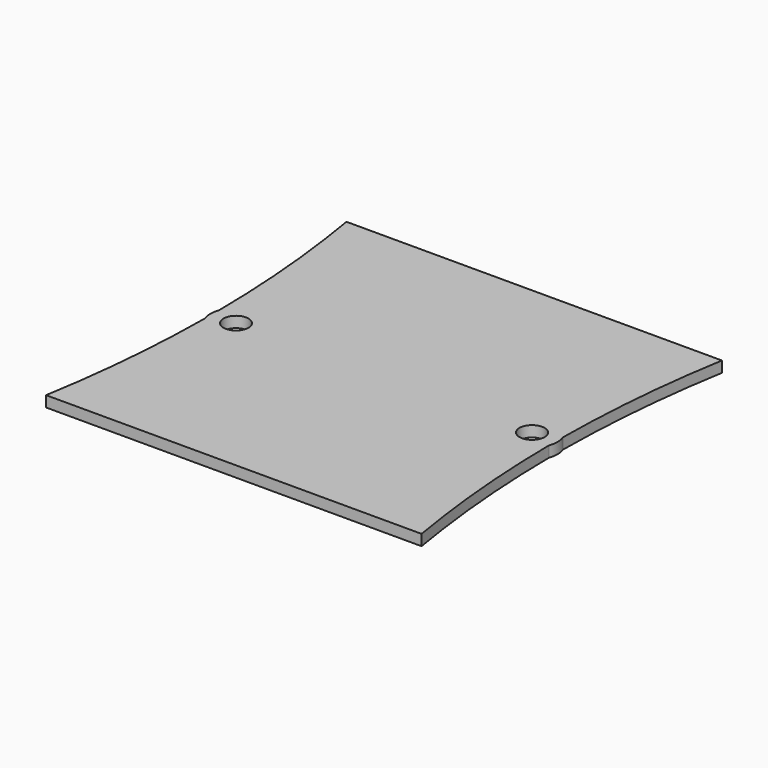
from build123d import *

# Parameters (mm, degrees)
F0_R     = 1.15
F1_DEPTH = 1


with BuildPart() as f1:
    # F0 (on Top) → F1 (new body)
    with BuildSketch(Plane.XY):
        with BuildLine():
            ThreePointArc((-17.25, 17.25), (-16.196163, 9.0671), (-15.8, 0.826136))
            ThreePointArc((-15.8, 0.826136), (-15.95, 0), (-15.8, -0.826136))
            ThreePointArc((-15.8, -0.826136), (-16.196163, -9.0671), (-17.25, -17.25))
            Line((-17.25, -17.25), (17.25, -17.25))
            ThreePointArc((17.25, -17.25), (16.196163, -9.0671), (15.8, -0.826136))
            ThreePointArc((15.8, -0.826136), (15.95, 0), (15.8, 0.826136))
            ThreePointArc((15.8, 0.826136), (16.196163, 9.0671), (17.25, 17.25))
            Line((17.25, 17.25), (-17.25, 17.25))
        make_face()
        with Locations((-13.6, 0)):
            Circle(F0_R, mode=Mode.SUBTRACT)
        with Locations((13.6, 0)):
            Circle(F0_R, mode=Mode.SUBTRACT)
    extrude(amount=F1_DEPTH)


solid = f1.part
